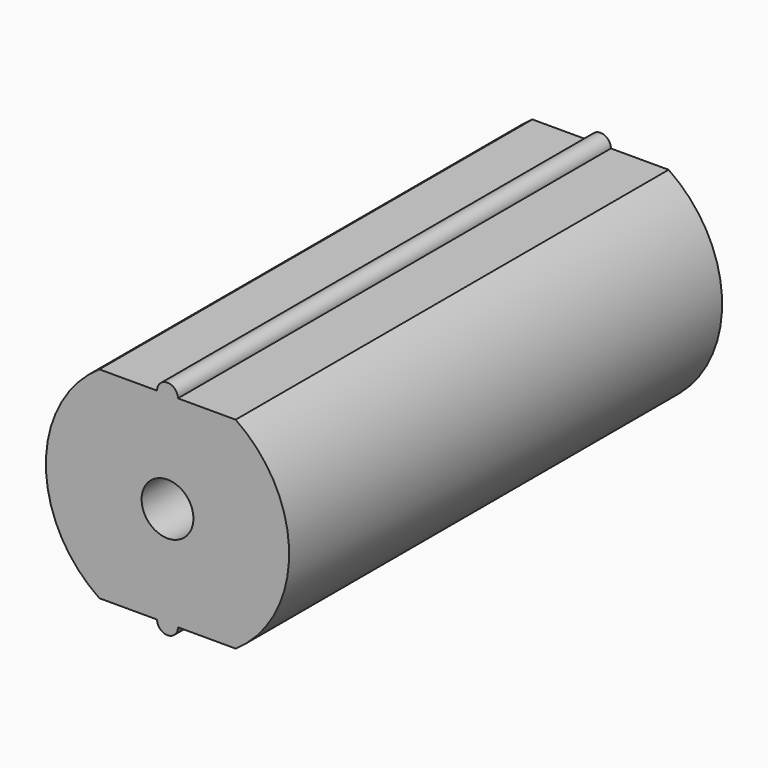
from build123d import *

# Parameters (mm, degrees)
F0_R     = 1.8
F1_DEPTH = 18.8


with BuildPart() as f1:
    # F0 (on Front) → F1 (new body, symmetric)
    with BuildSketch(Plane.XZ):
        with BuildLine():
            Line((-0.725, 7), (-4.733128, 7))
            ThreePointArc((-4.733128, 7), (-8.45, 0), (-4.733128, -7))
            Line((-4.733128, -7), (-0.725, -7))
            ThreePointArc((-0.725, -7), (0, -7.725), (0.725, -7))
            Line((0.725, -7), (4.733128, -7))
            ThreePointArc((4.733128, -7), (8.45, 0), (4.733128, 7))
            Line((4.733128, 7), (0.725, 7))
            ThreePointArc((0.725, 7), (0, 7.725), (-0.725, 7))
        make_face()
        Circle(F0_R, mode=Mode.SUBTRACT)
    extrude(amount=F1_DEPTH, both=True)


solid = f1.part
